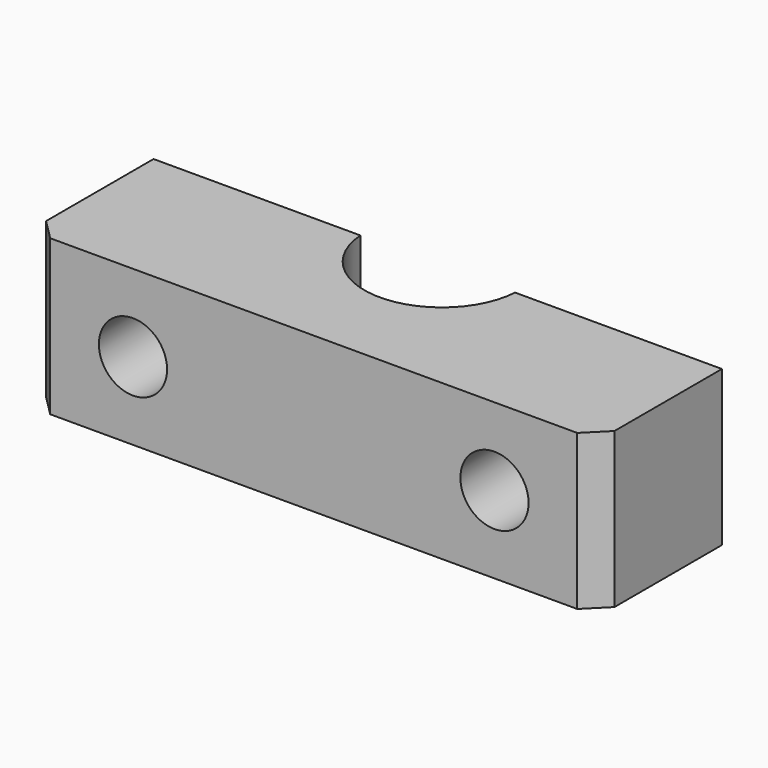
from build123d import *

# Parameters (mm, degrees)
F1_DEPTH = 15
F3_D     = 6.6
F4_SIZE2 = 2
F4_SIZE  = 2


with BuildPart() as f1:
    # F0 (on Top) → F1 (new body)
    with BuildSketch(Plane.XY):
        with BuildLine():
            ThreePointArc((7.483315, -0.5), (0, -7.5), (-7.483315, -0.5))
            Line((-7.483315, -0.5), (-27.5, -0.5))
            Line((-27.5, -0.5), (-27.5, -15.5))
            Line((-27.5, -15.5), (27.5, -15.5))
            Line((27.5, -15.5), (27.5, -0.5))
            Line((27.5, -0.5), (7.483315, -0.5))
        make_face()
    extrude(amount=F1_DEPTH)

    # F3 (through all)
    with Locations(Plane(origin=(0, -0.5, 0), x_dir=(-1, 0, 0), z_dir=(0, 1, 0))):
        with Locations((17.491657, 7.5), (-17.491657, 7.5)):
            Hole(F3_D / 2)

    # F4
    f4_edges = [f1.edges().sort_by_distance(p)[0] for p in [
        (-27.5, -15.5, 7.5),
        (27.5, -15.5, 7.5),
    ]]
    chamfer(f4_edges, length=F4_SIZE, length2=F4_SIZE2)


solid = f1.part
